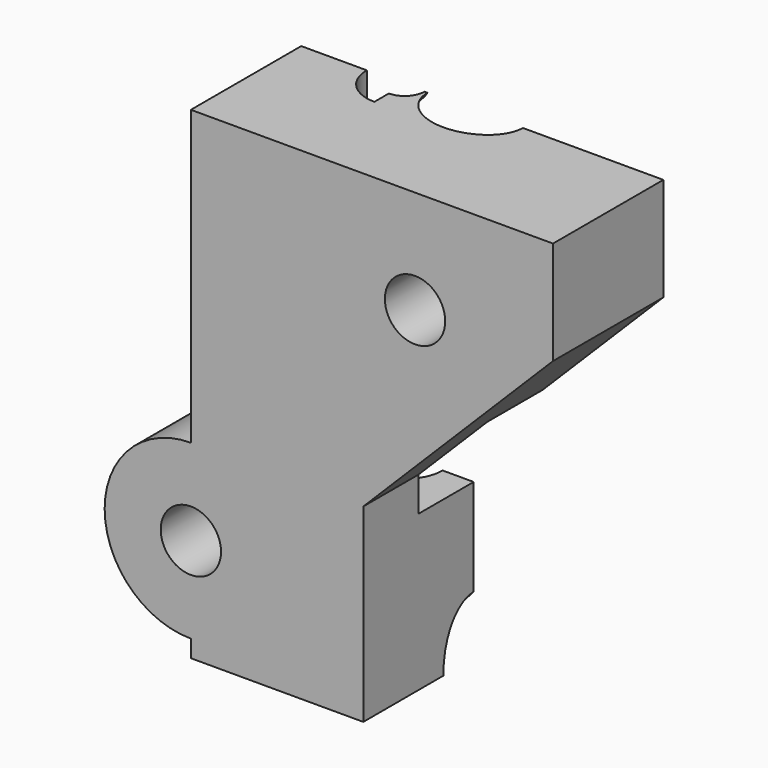
from build123d import *

# Parameters (mm, degrees)
BOX001027045134_W           = 10
BOX001027045134_H           = 10
BOX001027045134_DEPTH       = 32
CYLINDER192_R               = 2.2
CYLINDER192_DEPTH           = 17
CUT158_PLACEMENT_ANGLE      = 180
BOX001027045133_W           = 10
BOX001027045133_H           = 10
BOX001027045133_DEPTH       = 32
BOX001027045132_W           = 15
BOX001027045132_H           = 10
BOX001027045132_DEPTH       = 18
BOX001027045135_W           = 25
BOX001027045135_H           = 10
BOX001027045135_DEPTH       = 25
TORUS013_R                  = 2.2
TORUS013_ROLL_ANGLE         = 90
COMMON091_PITCH_ANGLE       = -45
COMMON090_PLACEMENT_ANGLE   = 180
CYLINDER191_R               = 2.2
CYLINDER191_DEPTH           = 9
CYLINDER193_R               = 2.2
CYLINDER193_DEPTH           = 9
CYLINDER190_R               = 1.15
CYLINDER190_DEPTH           = 32
CYLINDER171_R               = 1.75
CYLINDER171_DEPTH           = 30
CYLINDER171_ROLL_ANGLE      = 90
CYLINDER195_R               = 1.75
CYLINDER195_DEPTH           = 30
CYLINDER195_ROLL_ANGLE      = 90
BOX001027045140_W           = 26
BOX001027045140_H           = 21
BOX001027045140_DEPTH       = 6
CYLINDER189_R               = 5
CYLINDER189_DEPTH           = 8
CYLINDER189_ROLL_ANGLE      = 90
BOX001027045139_W           = 21
BOX001027045139_H           = 10
BOX001027045139_DEPTH       = 28
BOX001027045139_PITCH_ANGLE = 45
BOX001027045138_W           = 21
BOX001027045138_H           = 10
BOX001027045138_DEPTH       = 28
BOX001027045137_W           = 21
BOX001027045137_H           = 8
BOX001027045137_DEPTH       = 28


with BuildPart() as cube187:
    # Box001027045134 → Box001027045134 (new body)
    with BuildSketch(Plane(origin=(0, -5, -22), x_dir=(1, 0, 0), z_dir=(0, 0, 1))):
        with Locations((5, 5)):
            Rectangle(BOX001027045134_W, BOX001027045134_H)
    extrude(amount=BOX001027045134_DEPTH)


with BuildPart() as cut158:
    # Cylinder192 → Cylinder192 (new body)
    with BuildSketch(Plane.XY.offset(-15)):
        Circle(CYLINDER192_R)
    extrude(amount=CYLINDER192_DEPTH)

    # Cut158: cut Cube187
    add(cube187.part, mode=Mode.SUBTRACT)


with BuildPart() as cut158_1:
    # Cut158 placement: moved
    add(cut158.part.moved(Location((0, 0, 6))).rotate(Axis((0, 0, 6), (1, 0, 0)), CUT158_PLACEMENT_ANGLE))


with BuildPart() as cube186:
    # Box001027045133 → Box001027045133 (new body)
    with BuildSketch(Plane(origin=(0, -5, -22), x_dir=(1, 0, 0), z_dir=(0, 0, 1))):
        with Locations((5, 5)):
            Rectangle(BOX001027045133_W, BOX001027045133_H)
    extrude(amount=BOX001027045133_DEPTH)


with BuildPart() as cube185:
    # Box001027045132 → Box001027045132 (new body)
    with BuildSketch(Plane(origin=(-5, -5, -18), x_dir=(1, 0, 0), z_dir=(0, 0, 1))):
        with Locations((7.5, 5)):
            Rectangle(BOX001027045132_W, BOX001027045132_H)
    extrude(amount=BOX001027045132_DEPTH)


with BuildPart() as cube188:
    # Box001027045135 → Box001027045135 (new body)
    with BuildSketch(Plane(origin=(-3, -5, -1), x_dir=(1, 0, 0), z_dir=(0, 0, 1))):
        with Locations((12.5, 5)):
            Rectangle(BOX001027045135_W, BOX001027045135_H)
    extrude(amount=BOX001027045135_DEPTH)


with BuildPart() as common090:
    # Torus013 → Torus013 (revolve)
    with BuildSketch(Plane.XZ):
        with Locations((20, 0)):
            Circle(TORUS013_R)
    revolve(axis=Axis((0, 0, 0), (0, 0, 1)))


with BuildPart() as common090_1:
    # Torus013 roll: moved
    add(common090.part.rotate(Axis((0, 0, 0), (1, 0, 0)), TORUS013_ROLL_ANGLE))


with BuildPart() as common090_2:
    # Torus013 placement: moved
    add(common090_1.part.moved(Location((20, 0, 0))))

    # Common091: intersect Cube188
    add(cube188.part, mode=Mode.INTERSECT)


with BuildPart() as common090_3:
    # Common091 pitch: moved
    add(common090_2.part.rotate(Axis((0, 0, 0), (0, 1, 0)), COMMON091_PITCH_ANGLE))


with BuildPart() as common090_4:
    # Common091 placement: moved
    add(common090_3.part.moved(Location((5.857864, 0, -14.142136))))

    # Common089: intersect Cube185
    add(cube185.part, mode=Mode.INTERSECT)

    # Common090: intersect Cube186
    add(cube186.part, mode=Mode.INTERSECT)


with BuildPart() as common090_5:
    # Common090 placement: moved
    add(common090_4.part.moved(Location((0, 0, 4))).rotate(Axis((0, 0, 4), (1, 0, 0)), COMMON090_PLACEMENT_ANGLE))


with BuildPart() as cylinder238:
    # Cylinder191 → Cylinder191 (new body)
    with BuildSketch(Plane(origin=(0, 0, 4), x_dir=(1, 0, 0), z_dir=(0, 0, -1))):
        Circle(CYLINDER191_R)
    extrude(amount=CYLINDER191_DEPTH)


with BuildPart() as cylinder240:
    # Cylinder193 → Cylinder193 (new body)
    with BuildSketch(Plane(origin=(0, 0, 33), x_dir=(1, 0, 0), z_dir=(0, 0, -1))):
        Circle(CYLINDER193_R)
    extrude(amount=CYLINDER193_DEPTH)


with BuildPart() as cylinder237:
    # Cylinder190 → Cylinder190 (new body)
    with BuildSketch(Plane(origin=(0, 0, 30), x_dir=(1, 0, 0), z_dir=(0, 0, -1))):
        Circle(CYLINDER190_R)
    extrude(amount=CYLINDER190_DEPTH)


with BuildPart() as filament_path002:
    # Fusion112095 base: copy of Cylinder237
    add(cylinder237.part)

    # Fusion112095: union Cut158, Common090, Cylinder238, Cylinder240
    add(cut158_1.part)
    add(common090_5.part)
    add(cylinder238.part)
    add(cylinder240.part)


with BuildPart() as filament_path002_1:
    # Fusion112095 placement: moved
    add(filament_path002.part.moved(Location((0, 0, 5))))


with BuildPart() as top_path:
    # Fusion112086 base: copy of Cylinder237
    add(cylinder237.part)

    # Fusion112086: union Cut158, Common090, Cylinder238, Cylinder240
    add(cut158_1.part)
    add(common090_5.part)
    add(cylinder238.part)
    add(cylinder240.part)


with BuildPart() as top_path_1:
    # Fusion112086 placement: moved
    add(top_path.part.moved(Location((0, 0, -23))))

    # Fusion112096: union filament-path002
    add(filament_path002_1.part)


with BuildPart() as m3_clear:
    # Cylinder171 → Cylinder171 (new body)
    with BuildSketch(Plane.XY):
        Circle(CYLINDER171_R)
    extrude(amount=CYLINDER171_DEPTH)


with BuildPart() as m3_clear_1:
    # Cylinder171 roll: moved
    add(m3_clear.part.rotate(Axis((0, 0, 0), (1, 0, 0)), CYLINDER171_ROLL_ANGLE))


with BuildPart() as m3_clear_2:
    # Cylinder171 placement: moved
    add(m3_clear_1.part.moved(Location((7, 13, 15))))


with BuildPart() as top_m3_clear:
    # Cylinder195 → Cylinder195 (new body)
    with BuildSketch(Plane.XY):
        Circle(CYLINDER195_R)
    extrude(amount=CYLINDER195_DEPTH)


with BuildPart() as top_m3_clear_1:
    # Cylinder195 roll: moved
    add(top_m3_clear.part.rotate(Axis((0, 0, 0), (1, 0, 0)), CYLINDER195_ROLL_ANGLE))


with BuildPart() as top_m3_clear_2:
    # Cylinder195 placement: moved
    add(top_m3_clear_1.part.moved(Location((-6, 13, -1))))

    # Fusion112093: union M3-clear
    add(m3_clear_2.part)


with BuildPart() as cube193:
    # Box001027045140 → Box001027045140 (new body)
    with BuildSketch(Plane(origin=(-6, -4, 2), x_dir=(1, 0, 0), z_dir=(0, 0, 1))):
        with Locations((13, 10.5)):
            Rectangle(BOX001027045140_W, BOX001027045140_H)
    extrude(amount=BOX001027045140_DEPTH)


with BuildPart() as screw_bump_top:
    # Cylinder189 → Cylinder189 (new body)
    with BuildSketch(Plane.XY):
        Circle(CYLINDER189_R)
    extrude(amount=CYLINDER189_DEPTH)


with BuildPart() as screw_bump_top_1:
    # Cylinder189 roll: moved
    add(screw_bump_top.part.rotate(Axis((0, 0, 0), (1, 0, 0)), CYLINDER189_ROLL_ANGLE))


with BuildPart() as screw_bump_top_2:
    # Cylinder189 placement: moved
    add(screw_bump_top_1.part.moved(Location((-6, 0, -1))))


with BuildPart() as cube192:
    # Box001027045139 → Box001027045139 (new body)
    with BuildSketch(Plane.XY):
        with Locations((10.5, 5)):
            Rectangle(BOX001027045139_W, BOX001027045139_H)
    extrude(amount=BOX001027045139_DEPTH)


with BuildPart() as cube192_1:
    # Box001027045139 pitch: moved
    add(cube192.part.rotate(Axis((0, 0, 0), (0, 1, 0)), BOX001027045139_PITCH_ANGLE))


with BuildPart() as cube192_2:
    # Box001027045139 placement: moved
    add(cube192_1.part.moved(Location((-6, -9, 21))))


with BuildPart() as fusion112087:
    # Box001027045138 → Box001027045138 (new body)
    with BuildSketch(Plane(origin=(-6, -9, -7), x_dir=(1, 0, 0), z_dir=(0, 0, 1))):
        with Locations((10.5, 5)):
            Rectangle(BOX001027045138_W, BOX001027045138_H)
    extrude(amount=BOX001027045138_DEPTH)

    # Fusion112087: union Cube192
    add(cube192_2.part)


with BuildPart() as fusion112087_1:
    # Fusion112087 placement: moved
    add(fusion112087.part.moved(Location((10, 0, -17))))


with BuildPart() as top:
    # Box001027045137 → Box001027045137 (new body)
    with BuildSketch(Plane(origin=(-6, -8, -7), x_dir=(1, 0, 0), z_dir=(0, 0, 1))):
        with Locations((10.5, 4)):
            Rectangle(BOX001027045137_W, BOX001027045137_H)
    extrude(amount=BOX001027045137_DEPTH)

    # Cut160: cut Fusion112087
    add(fusion112087_1.part, mode=Mode.SUBTRACT)

    # Fusion112088: union screw-bump-top
    add(screw_bump_top_2.part)

    # Cut161: cut Cube193
    add(cube193.part, mode=Mode.SUBTRACT)

    # Cut167: cut top-m3-clear
    add(top_m3_clear_2.part, mode=Mode.SUBTRACT)

    # Cut170: cut top-path
    add(top_path_1.part, mode=Mode.SUBTRACT)


solid = top.part
